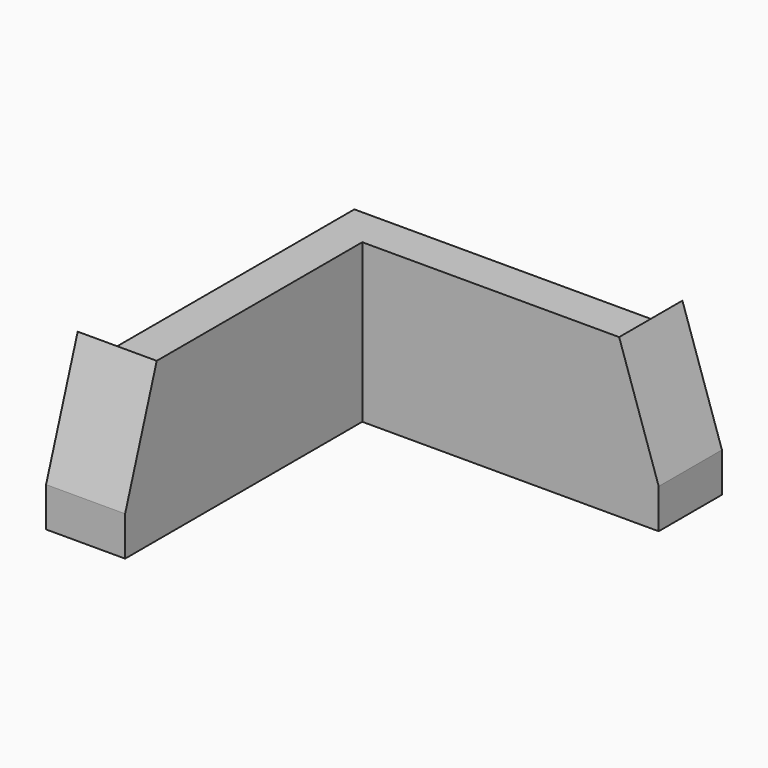
from build123d import *

# Parameters (mm, degrees)
F1_DEPTH = 25.4
F2_SIZE2 = 19.05
F2_SIZE  = 6.35
F5_DEPTH = 6.35
F6_DEPTH = 6.35


with BuildPart() as f1:
    # F0 (on Top) → F1 (new body)
    with BuildSketch(Plane.XY):
        Polygon((-31.75, -22.225), (-25.4, -22.225), (-25.4, 25.4), (22.225, 25.4), (22.225, 31.75), (-31.75, 31.75), align=None)
    extrude(amount=F1_DEPTH)

    # F2
    f2_edges = [f1.edges().sort_by_distance(p)[0] for p in [
        (-28.575, -22.225, 25.4),
        (22.225, 28.575, 25.4),
    ]]
    f2_side = f1.faces().sort_by_distance((-28.575, -21.461678, 25.4))[0]
    chamfer(f2_edges, length=F2_SIZE, length2=F2_SIZE2, reference=f2_side)

    # F4 (on face) → F5 (join)
    with BuildSketch(Plane(origin=(0, 31.75, 0), x_dir=(-1, 0, 0), z_dir=(0, 1, 0))):
        Polygon((-15.875, 0), (-15.875, 25.4), (-22.225, 6.35), (-22.225, 0), align=None)
    extrude(amount=F5_DEPTH)

    # F3 (on face) → F6 (join)
    with BuildSketch(Plane(origin=(-31.75, 0, 0), x_dir=(0, -1, 0), z_dir=(-1, 0, 0))):
        Polygon((22.225, 6.35), (15.875, 25.4), (15.875, 0), (22.225, 0), align=None)
    extrude(amount=F6_DEPTH)


solid = f1.part
